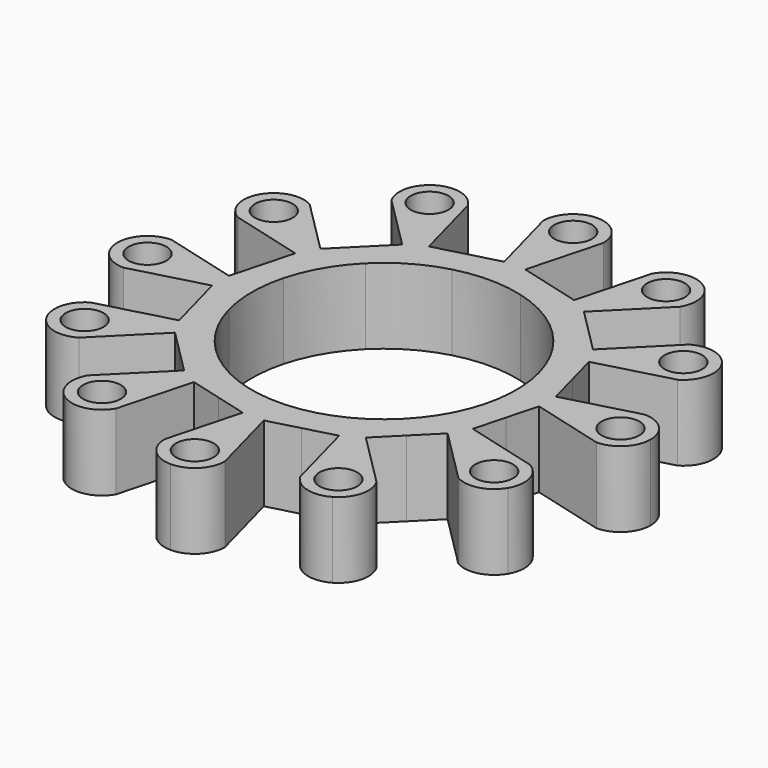
from build123d import *

# Parameters (mm, degrees)
F0_R     = 1
F1_DEPTH = 4
F3_COUNT = 12


with BuildPart() as f1:
    # F0 (on Top) → F1 (new body)
    with BuildSketch(Plane.XY):
        with BuildLine():
            Line((8.6503619001, 0.5578879787), (8.2103695235, 2.1999618834))
            Line((8.2103695235, 2.1999618834), (6.761480784, 1.8117333157))
            ThreePointArc((6.761480784, 1.8117333157), (7, 0), (6.761480784, -1.8117333157))
            Line((6.761480784, -1.8117333157), (8.2103695235, -2.1999618834))
            Line((8.2103695235, -2.1999618834), (8.6503619001, -0.5578879787))
            Line((8.6503619001, -0.5578879787), (12.5140652053, -1.5931641591))
            ThreePointArc((12.5140652053, -1.5931641591), (13.6406023857, -1.1265371804), (14.1072293644, 0))
            ThreePointArc((14.1072293644, 0), (13.6406023857, 1.1265371804), (12.5140652053, 1.5931641591))
            Line((12.5140652053, 1.5931641591), (8.6503619001, 0.5578879787))
        make_face()
        with Locations((12.5140652053, 0)):
            Circle(F0_R, mode=Mode.SUBTRACT)
    extrude(amount=F1_DEPTH)

    # F3: F1 ×12 about axis
    f3_axis = Axis((0, 0, -5.4754605517), (0, 0, -1))


with BuildPart() as f1_1:
    add(f1.part)
    for i in range(1, F3_COUNT):
        add(f1.part.rotate(f3_axis, i * 360 / F3_COUNT))


solid = f1_1.part
